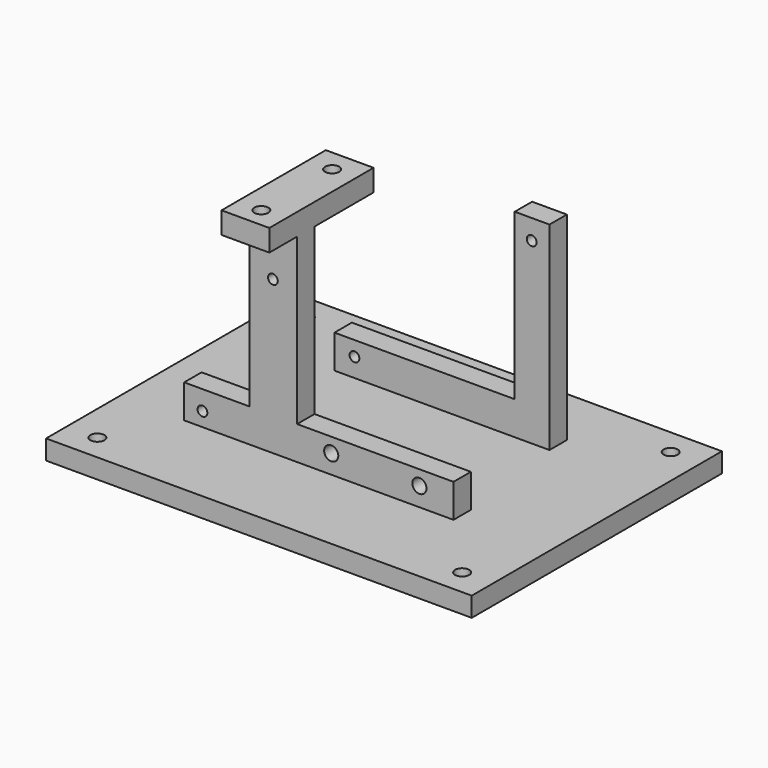
from build123d import *

# Parameters (mm, degrees)
SKETCH035_R                               = 1.625
EXTRUDE011_DEPTH                          = 20
SKETCH020_W                               = 11
SKETCH020_H                               = 30
SKETCH020_R                               = 1.625
EXTRUDE004_DEPTH                          = 5
SKETCH022_AS_DRAWN_W                      = 72
SKETCH022_AS_DRAWN_H                      = 98
EXTRUDE006_DEPTH                          = 4.5
EXTRUDE006_ONTO_SKETCH022_ROLL_ANGLE      = 0
EXTRUDE006_ONTO_SKETCH022_PITCH_ANGLE     = 0
EXTRUDE006_ONTO_SKETCH022_PLACEMENT_ANGLE = 90.000003
SKETCH019_R                               = 1.125
SKETCH019_R_2                             = 1.625
EXTRUDE003_DEPTH                          = 5
SKETCH021_R                               = 1.125
EXTRUDE005_DEPTH                          = 5


with BuildPart() as basecuts001:
    # Sketch035 → Extrude011 (new body)
    with BuildSketch(Plane.XY):
        with Locations((-42, -332)):
            Circle(SKETCH035_R)
        with Locations((42, -332)):
            Circle(SKETCH035_R)
        with Locations((42, -272)):
            Circle(SKETCH035_R)
        with Locations((-42, -272)):
            Circle(SKETCH035_R)
    extrude(amount=EXTRUDE011_DEPTH)


with BuildPart() as basecuts001_1:
    # Extrude011 placement: moved
    add(basecuts001.part.moved(Location((0, 0, -329))))


with BuildPart() as gpshold:
    # Sketch020 → Extrude004 (new body)
    with BuildSketch(Plane.XY):
        with Locations((-13.5, -310)):
            Rectangle(SKETCH020_W, SKETCH020_H)
        with Locations((-13.45, -300.1)):
            Circle(SKETCH020_R, mode=Mode.SUBTRACT)
        with Locations((-13.45, -320.5)):
            Circle(SKETCH020_R, mode=Mode.SUBTRACT)
    extrude(amount=EXTRUDE004_DEPTH)


with BuildPart() as gpshold_1:
    # Extrude004 placement: moved
    add(gpshold.part.moved(Location((0, 0, -278))))


with BuildPart() as base:
    # Sketch022 as drawn → Extrude006 (new)
    with BuildSketch(Plane.XY):
        Rectangle(SKETCH022_AS_DRAWN_W, SKETCH022_AS_DRAWN_H)
    extrude(amount=EXTRUDE006_DEPTH)


with BuildPart() as base_1:
    # Extrude006 onto Sketch022 roll: moved
    add(base.part.rotate(Axis((0, 0, 0), (1, 0, 0)), EXTRUDE006_ONTO_SKETCH022_ROLL_ANGLE))


with BuildPart() as base_2:
    # Extrude006 onto Sketch022 pitch: moved
    add(base_1.part.rotate(Axis((0, 0, 0), (0, 1, 0)), EXTRUDE006_ONTO_SKETCH022_PITCH_ANGLE))


with BuildPart() as base_3:
    # Extrude006 onto Sketch022 placement: moved
    add(base_2.part.moved(Location((0, -302, -283.455178))).rotate(Axis((0, -302, -283.455178), (0, 0, 1)), EXTRUDE006_ONTO_SKETCH022_PLACEMENT_ANGLE))


with BuildPart() as base_4:
    # Extrude006 placement: moved
    add(base_3.part.moved(Location((0, 0, -44.75))))


with BuildPart() as obj1:
    # Sketch019 → Extrude003 (new body)
    with BuildSketch(Plane.XZ):
        Polygon((28, -324), (28, -316), (-8, -316), (-8, -278), (-19, -278), (-19, -316), (-34, -316), (-34, -324), align=None)
        with Locations((-29.8, -320.46)):
            Circle(SKETCH019_R, mode=Mode.SUBTRACT)
        with Locations((-13.58, -288.46)):
            Circle(SKETCH019_R, mode=Mode.SUBTRACT)
        with Locations((-0.15, -319.37)):
            Circle(SKETCH019_R_2, mode=Mode.SUBTRACT)
        with Locations((20.15, -319.37)):
            Circle(SKETCH019_R_2, mode=Mode.SUBTRACT)
    extrude(amount=EXTRUDE003_DEPTH)


with BuildPart() as obj1_1:
    # Extrude003 placement: moved
    add(obj1.part.moved(Location((0, -312, 0))))


with BuildPart() as base002:
    # Sketch021 (on Extrude) → Extrude005 (new body)
    with BuildSketch(Plane.XZ.offset(312)):
        Polygon((-25, -324), (-25, -316), (16.5, -316), (16.5, -278), (24.5, -278), (24.5, -324), align=None)
        with Locations((-20.4, -319.4)):
            Circle(SKETCH021_R, mode=Mode.SUBTRACT)
        with Locations((20.4, -282.6)):
            Circle(SKETCH021_R, mode=Mode.SUBTRACT)
    extrude(amount=EXTRUDE005_DEPTH)


with BuildPart() as base002_1:
    # Extrude005 placement: moved
    add(base002.part.moved(Location((0, 32, 0))))

    # Fusion038: union gpsHold, base, obj1
    add(gpshold_1.part)
    add(base_4.part)
    add(obj1_1.part)

    # Cut019: cut baseCuts001
    add(basecuts001_1.part, mode=Mode.SUBTRACT)


solid = base002_1.part
